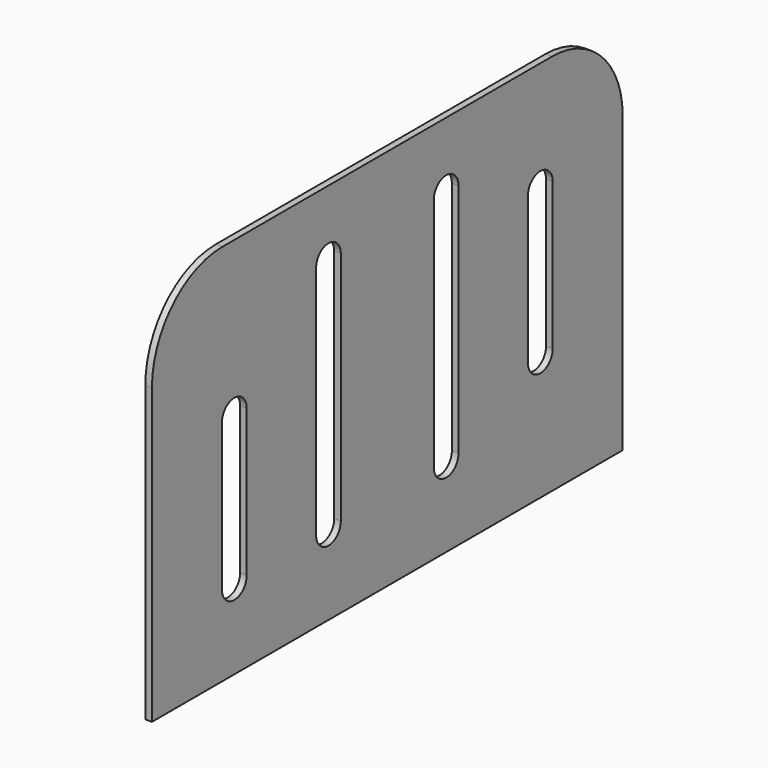
from build123d import *

# Parameters (mm, degrees)
F1_DEPTH = 4.5


with BuildPart() as f1:
    # F0 (on Right) → F1 (new body)
    with BuildSketch(Plane.YZ):
        with BuildLine():
            Line((-100, -710), (300, -710))
            Line((300, -710), (300, -510))
            ThreePointArc((300, -510), (282.426407, -467.573593), (240, -450))
            Line((240, -450), (-40, -450))
            ThreePointArc((-40, -450), (-82.426407, -467.573593), (-100, -510))
            Line((-100, -510), (-100, -710))
        make_face()
        with BuildLine():
            ThreePointArc((-19.5, -655), (-30, -665.5), (-40.5, -655))
            Line((-40.5, -655), (-40.5, -555))
            ThreePointArc((-40.5, -555), (-30, -544.5), (-19.5, -555))
            Line((-19.5, -555), (-19.5, -655))
        make_face(mode=Mode.SUBTRACT)
        with BuildLine():
            Line((39.5, -655), (39.5, -495))
            ThreePointArc((39.5, -495), (50, -484.5), (60.5, -495))
            Line((60.5, -495), (60.5, -655))
            ThreePointArc((60.5, -655), (50, -665.5), (39.5, -655))
        make_face(mode=Mode.SUBTRACT)
        with BuildLine():
            Line((139.5, -655), (139.5, -495))
            ThreePointArc((139.5, -495), (150, -484.5), (160.5, -495))
            Line((160.5, -495), (160.5, -655))
            ThreePointArc((160.5, -655), (150, -665.5), (139.5, -655))
        make_face(mode=Mode.SUBTRACT)
        with BuildLine():
            ThreePointArc((240.5, -625), (230, -635.5), (219.5, -625))
            Line((219.5, -625), (219.5, -525))
            ThreePointArc((219.5, -525), (230, -514.5), (240.5, -525))
            Line((240.5, -525), (240.5, -625))
        make_face(mode=Mode.SUBTRACT)
    extrude(amount=-F1_DEPTH)


solid = f1.part
